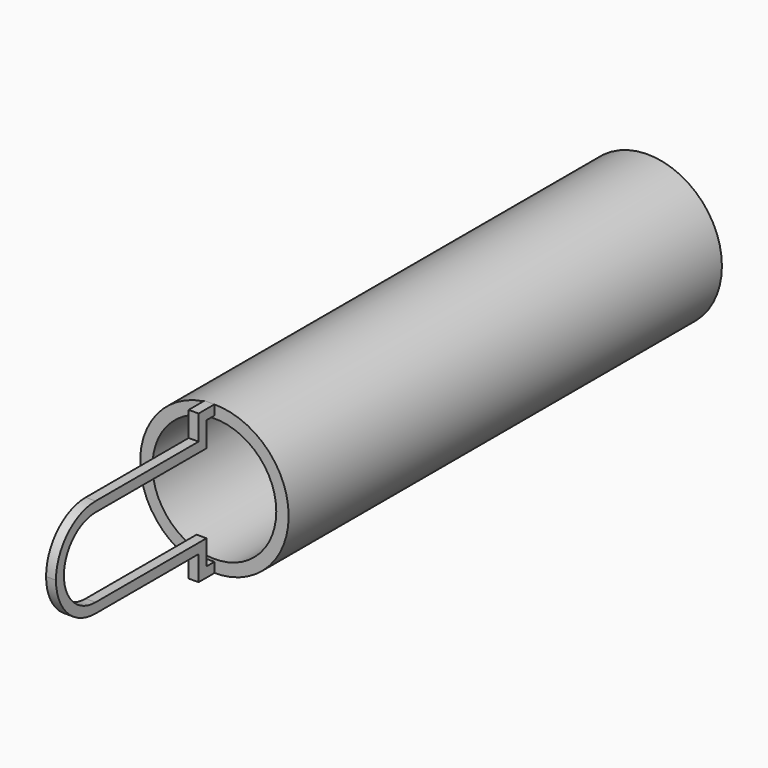
from build123d import *

# Parameters (mm, degrees)
F0_R     = 19.05
F0_R_2   = 15.875
F1_DEPTH = 138.938
F3_DEPTH = 2.54
F4_W     = 2.54
F4_H     = 2.54
F5_DEPTH = 25.4


with BuildPart() as f1:
    # F0 (on Front) → F1 (new body)
    with BuildSketch(Plane.XZ):
        Circle(F0_R)
        Circle(F0_R_2, mode=Mode.SUBTRACT)
    extrude(amount=-F1_DEPTH)


with BuildPart() as f3:
    # F2 (on Right) → F3 (new body)
    with BuildSketch(Plane.YZ):
        with BuildLine():
            Line((0, 10.16), (0, 12.7))
            Line((0, 12.7), (-2.54, 12.7))
            Line((-2.54, 12.7), (-2.54, 16.51))
            Line((-2.54, 16.51), (0, 16.51))
            Line((0, 16.51), (0, 19.05))
            Line((0, 19.05), (-2.54, 19.05))
            Line((-2.54, 19.05), (-5.08, 19.05))
            Line((-5.08, 19.05), (-5.08, 12.7))
            Line((-5.08, 12.7), (-38.1, 12.7))
            ThreePointArc((-38.1, 12.7), (-47.080256, 8.980256), (-50.8, 0))
            ThreePointArc((-50.8, 0), (-47.080256, -8.980256), (-38.1, -12.7))
            Line((-38.1, -12.7), (-5.08, -12.7))
            Line((-5.08, -12.7), (-5.08, -19.05))
            Line((-5.08, -19.05), (-2.54, -19.05))
            Line((-2.54, -19.05), (0, -19.05))
            Line((0, -19.05), (0, -16.51))
            Line((0, -16.51), (-2.54, -16.51))
            Line((-2.54, -16.51), (-2.54, -12.7))
            Line((-2.54, -12.7), (0, -12.7))
            Line((0, -12.7), (0, -10.16))
            Line((0, -10.16), (-38.1, -10.16))
            ThreePointArc((-38.1, -10.16), (-45.284205, -7.184205), (-48.26, 0))
            ThreePointArc((-48.26, 0), (-45.284205, 7.184205), (-38.1, 10.16))
            Line((-38.1, 10.16), (0, 10.16))
        make_face()
    extrude(amount=-F3_DEPTH)

    # F4 (on face) → F5 (cut)
    with BuildSketch(Plane.YZ):
        with Locations((-1.27, 11.43)):
            Rectangle(F4_W, F4_H)
        with Locations((-1.27, -11.43)):
            Rectangle(F4_W, F4_H)
    extrude(amount=-F5_DEPTH, mode=Mode.SUBTRACT)


solid = Compound([f1.part, f3.part])
